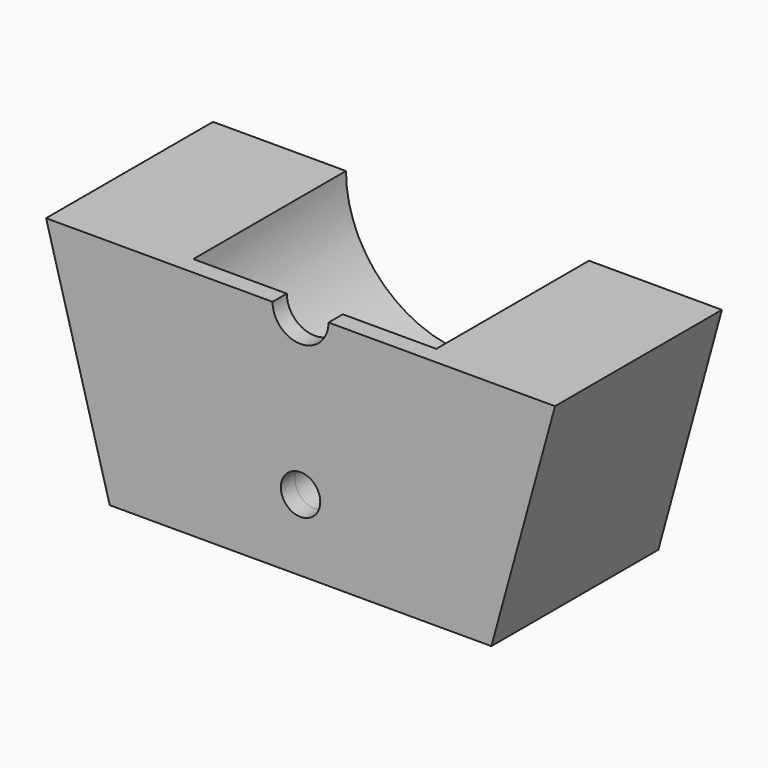
from build123d import *

# Parameters (mm, degrees)
F0_R     = 1.9685
F1_DEPTH = 1.778
F2_R     = 1.9685
F3_DEPTH = 19.05


with BuildPart() as f1:
    # F0 (on Front) → F1 (new body)
    with BuildSketch(Plane.XZ):
        with BuildLine():
            ThreePointArc((2.794, 0), (0, -2.794), (-2.794, 0))
            Line((-2.794, 0), (-25.4, 0))
            Line((-25.4, 0), (-19.05, -23.155347))
            Line((-19.05, -23.155347), (0, -23.155347))
            Line((0, -23.155347), (19.05, -23.155347))
            Line((19.05, -23.155347), (25.4, 0))
            Line((25.4, 0), (2.794, 0))
        make_face()
        with Locations((0, -16.0274)):
            Circle(F0_R, mode=Mode.SUBTRACT)
    extrude(amount=F1_DEPTH)

    # F2 (on face) → F3 (join)
    with BuildSketch(Plane(origin=(0, 0, 0), x_dir=(-1, 0, 0), z_dir=(0, 1, 0))):
        with BuildLine():
            ThreePointArc((12.1285, 0), (0, -12.1285), (-12.1285, 0))
            Line((-12.1285, 0), (-25.4, 0))
            Line((-25.4, 0), (-19.05, -23.155347))
            Line((-19.05, -23.155347), (19.05, -23.155347))
            Line((19.05, -23.155347), (25.4, 0))
            Line((25.4, 0), (12.1285, 0))
        make_face()
        with Locations((0, -16.0274)):
            Circle(F2_R, mode=Mode.SUBTRACT)
    extrude(amount=F3_DEPTH)


solid = f1.part
